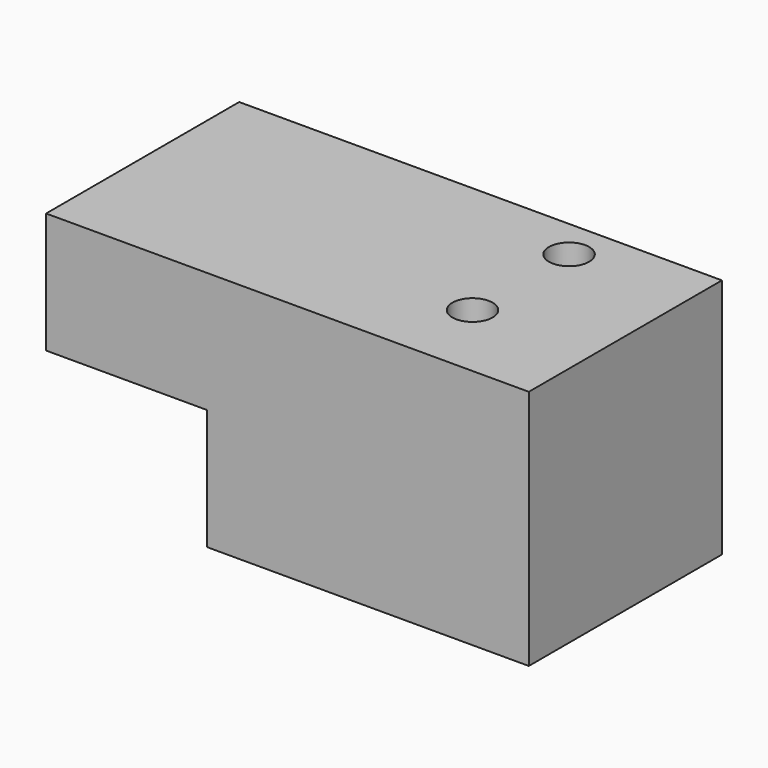
from build123d import *

# Parameters (mm, degrees)
F0_W     = 152.4
F0_H     = 76.2
F1_DEPTH = 38.1
F2_W     = 50.8
F2_H     = 76.2
F3_DEPTH = 38.1
F4_R     = 6.35
F5_DEPTH = 76.2


with BuildPart() as f1:
    # F0 (on Top) → F1 (new body, symmetric)
    with BuildSketch(Plane.XY):
        Rectangle(F0_W, F0_H)
    extrude(amount=F1_DEPTH, both=True)

    # F2 (on face) → F3 (cut)
    with BuildSketch(Plane(origin=(0, 0, -38.1), x_dir=(1, 0, 0), z_dir=(0, 0, -1))):
        with Locations((-50.8, 0)):
            Rectangle(F2_W, F2_H)
    extrude(amount=-F3_DEPTH, mode=Mode.SUBTRACT)

    # F4 (on face) → F5 (cut)
    with BuildSketch(Plane(origin=(0, 0, -38.1), x_dir=(1, 0, 0), z_dir=(0, 0, -1))):
        with Locations((38.1, 12.7)):
            Circle(F4_R)
        with Locations((38.1, -25.4)):
            Circle(F4_R)
    extrude(amount=-F5_DEPTH, mode=Mode.SUBTRACT)


solid = f1.part
